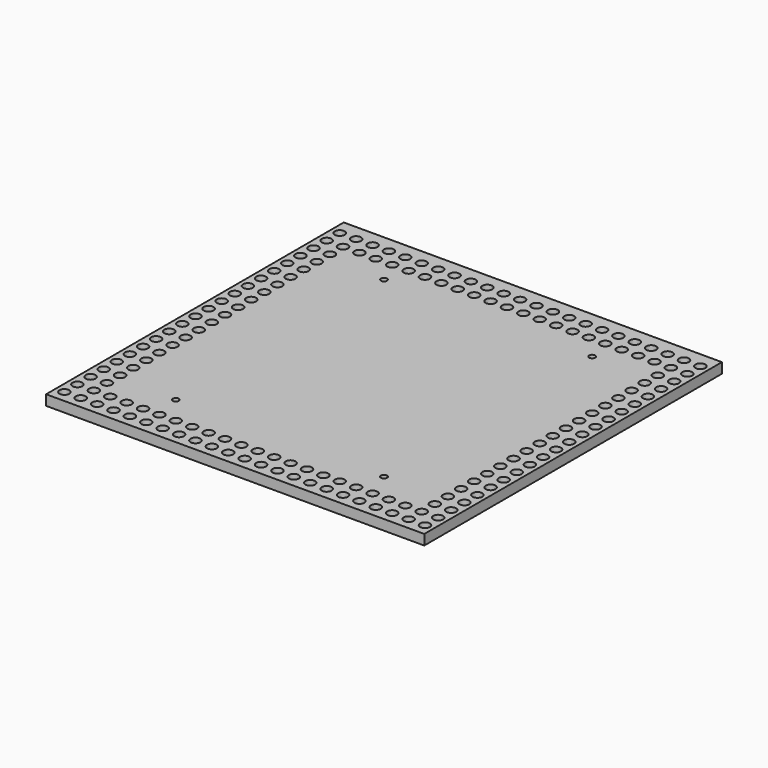
from build123d import *

# Parameters (mm, degrees)
F0_W     = 184.55
F0_H     = 181.58
F1_DEPTH = 5
F2_R     = 2.4
F3_DEPTH = 25
F5_DEPTH = 25


with BuildPart() as f1:
    # F0 (on Top) → F1 (new body)
    with BuildSketch(Plane.XY):
        Rectangle(F0_W, F0_H)
    extrude(amount=F1_DEPTH)

    # F2 (on face) → F3 (cut)
    with BuildSketch(Plane.XY.offset(5)):
        with Locations((80, -76.99)):
            Circle(F2_R)
        with Locations((88, -76.99)):
            Circle(F2_R)
        with Locations((88, -84.99)):
            Circle(F2_R)
        with Locations((80, -84.99)):
            Circle(F2_R)
        with Locations((72, -76.99)):
            Circle(F2_R)
        with Locations((72, -84.99)):
            Circle(F2_R)
        with Locations((64, -84.99)):
            Circle(F2_R)
        with Locations((64, -76.99)):
            Circle(F2_R)
        with Locations((56, -76.99)):
            Circle(F2_R)
        with Locations((56, -84.99)):
            Circle(F2_R)
        with Locations((48, -84.99)):
            Circle(F2_R)
        with Locations((48, -76.99)):
            Circle(F2_R)
        with Locations((40, -76.99)):
            Circle(F2_R)
        with Locations((40, -84.99)):
            Circle(F2_R)
        with Locations((32, -84.99)):
            Circle(F2_R)
        with Locations((32, -76.99)):
            Circle(F2_R)
        with Locations((24, -76.99)):
            Circle(F2_R)
        with Locations((24, -84.99)):
            Circle(F2_R)
        with Locations((16, -84.99)):
            Circle(F2_R)
        with Locations((16, -76.99)):
            Circle(F2_R)
        with Locations((8, -76.99)):
            Circle(F2_R)
        with Locations((8, -84.99)):
            Circle(F2_R)
        with Locations((0, -84.99)):
            Circle(F2_R)
        with Locations((0, -76.99)):
            Circle(F2_R)
        with Locations((-8, -76.99)):
            Circle(F2_R)
        with Locations((-8, -84.99)):
            Circle(F2_R)
        with Locations((-16, -84.99)):
            Circle(F2_R)
        with Locations((-16, -76.99)):
            Circle(F2_R)
        with Locations((-24, -76.99)):
            Circle(F2_R)
        with Locations((-24, -84.99)):
            Circle(F2_R)
        with Locations((-32, -84.99)):
            Circle(F2_R)
        with Locations((-32, -76.99)):
            Circle(F2_R)
        with Locations((-40, -76.99)):
            Circle(F2_R)
        with Locations((-40, -84.99)):
            Circle(F2_R)
        with Locations((-48, -84.99)):
            Circle(F2_R)
        with Locations((-48, -76.99)):
            Circle(F2_R)
        with Locations((-56, -76.99)):
            Circle(F2_R)
        with Locations((-56, -84.99)):
            Circle(F2_R)
        with Locations((-64, -84.99)):
            Circle(F2_R)
        with Locations((-72, -84.99)):
            Circle(F2_R)
        with Locations((-72, -76.99)):
            Circle(F2_R)
        with Locations((-64, -76.99)):
            Circle(F2_R)
        with Locations((-80, -84.99)):
            Circle(F2_R)
        with Locations((-88, -84.99)):
            Circle(F2_R)
        with Locations((-88, -76.99)):
            Circle(F2_R)
        with Locations((-80, -76.99)):
            Circle(F2_R)
        with Locations((-80, -68.99)):
            Circle(F2_R)
        with Locations((-88, -68.99)):
            Circle(F2_R)
        with Locations((-88, -60.99)):
            Circle(F2_R)
        with Locations((-80, -60.99)):
            Circle(F2_R)
        with Locations((-80, -52.99)):
            Circle(F2_R)
        with Locations((-88, -52.99)):
            Circle(F2_R)
        with Locations((-88, -44.99)):
            Circle(F2_R)
        with Locations((-80, -44.99)):
            Circle(F2_R)
        with Locations((-80, -36.99)):
            Circle(F2_R)
        with Locations((-88, -36.99)):
            Circle(F2_R)
        with Locations((-88, -28.99)):
            Circle(F2_R)
        with Locations((-80, -28.99)):
            Circle(F2_R)
        with Locations((-80, -20.99)):
            Circle(F2_R)
        with Locations((-88, -20.99)):
            Circle(F2_R)
        with Locations((-88, -12.99)):
            Circle(F2_R)
        with Locations((-80, -12.99)):
            Circle(F2_R)
        with Locations((-80, -4.99)):
            Circle(F2_R)
        with Locations((-88, -4.99)):
            Circle(F2_R)
        with Locations((-88, 3.01)):
            Circle(F2_R)
        with Locations((-80, 3.01)):
            Circle(F2_R)
        with Locations((-80, 11.01)):
            Circle(F2_R)
        with Locations((-88, 11.01)):
            Circle(F2_R)
        with Locations((-88, 19.01)):
            Circle(F2_R)
        with Locations((-80, 19.01)):
            Circle(F2_R)
        with Locations((-88, 27.01)):
            Circle(F2_R)
        with Locations((-80, 27.01)):
            Circle(F2_R)
        with Locations((-80, 35.01)):
            Circle(F2_R)
        with Locations((-88, 35.01)):
            Circle(F2_R)
        with Locations((-88, 43.01)):
            Circle(F2_R)
        with Locations((-80, 43.01)):
            Circle(F2_R)
        with Locations((-80, 51.01)):
            Circle(F2_R)
        with Locations((-88, 51.01)):
            Circle(F2_R)
        with Locations((-88, 59.01)):
            Circle(F2_R)
        with Locations((-80, 59.01)):
            Circle(F2_R)
        with Locations((-80, 67.01)):
            Circle(F2_R)
        with Locations((-88, 67.01)):
            Circle(F2_R)
        with Locations((-88, 75.01)):
            Circle(F2_R)
        with Locations((-88, 83.01)):
            Circle(F2_R)
        with Locations((-80, 83.01)):
            Circle(F2_R)
        with Locations((-80, 75.01)):
            Circle(F2_R)
        with Locations((-72, 75.01)):
            Circle(F2_R)
        with Locations((-72, 83.01)):
            Circle(F2_R)
        with Locations((-64, 83.01)):
            Circle(F2_R)
        with Locations((-64, 75.01)):
            Circle(F2_R)
        with Locations((-56, 75.01)):
            Circle(F2_R)
        with Locations((-56, 83.01)):
            Circle(F2_R)
        with Locations((-48, 83.01)):
            Circle(F2_R)
        with Locations((-48, 75.01)):
            Circle(F2_R)
        with Locations((-40, 75.01)):
            Circle(F2_R)
        with Locations((-40, 83.01)):
            Circle(F2_R)
        with Locations((-32, 83.01)):
            Circle(F2_R)
        with Locations((-32, 75.01)):
            Circle(F2_R)
        with Locations((-24, 75.01)):
            Circle(F2_R)
        with Locations((-24, 83.01)):
            Circle(F2_R)
        with Locations((-16, 83.01)):
            Circle(F2_R)
        with Locations((-16, 75.01)):
            Circle(F2_R)
        with Locations((-8, 83.01)):
            Circle(F2_R)
        with Locations((-8, 75.01)):
            Circle(F2_R)
        with Locations((0, 83.01)):
            Circle(F2_R)
        with Locations((0, 75.01)):
            Circle(F2_R)
        with Locations((8, 83.01)):
            Circle(F2_R)
        with Locations((8, 75.01)):
            Circle(F2_R)
        with Locations((16, 75.01)):
            Circle(F2_R)
        with Locations((16, 83.01)):
            Circle(F2_R)
        with Locations((24, 83.01)):
            Circle(F2_R)
        with Locations((24, 75.01)):
            Circle(F2_R)
        with Locations((32, 75.01)):
            Circle(F2_R)
        with Locations((32, 83.01)):
            Circle(F2_R)
        with Locations((40, 83.01)):
            Circle(F2_R)
        with Locations((40, 75.01)):
            Circle(F2_R)
        with Locations((48, 75.01)):
            Circle(F2_R)
        with Locations((48, 83.01)):
            Circle(F2_R)
        with Locations((56, 83.01)):
            Circle(F2_R)
        with Locations((56, 75.01)):
            Circle(F2_R)
        with Locations((64, 75.01)):
            Circle(F2_R)
        with Locations((64, 83.01)):
            Circle(F2_R)
        with Locations((72, 83.01)):
            Circle(F2_R)
        with Locations((72, 75.01)):
            Circle(F2_R)
        with Locations((80, 83.01)):
            Circle(F2_R)
        with Locations((88, 83.01)):
            Circle(F2_R)
        with Locations((88, 75.01)):
            Circle(F2_R)
        with Locations((80, 75.01)):
            Circle(F2_R)
        with Locations((80, 67.01)):
            Circle(F2_R)
        with Locations((88, 67.01)):
            Circle(F2_R)
        with Locations((88, 59.01)):
            Circle(F2_R)
        with Locations((80, 59.01)):
            Circle(F2_R)
        with Locations((80, 51.01)):
            Circle(F2_R)
        with Locations((88, 51.01)):
            Circle(F2_R)
        with Locations((88, 43.01)):
            Circle(F2_R)
        with Locations((80, 43.01)):
            Circle(F2_R)
        with Locations((80, 35.01)):
            Circle(F2_R)
        with Locations((88, 35.01)):
            Circle(F2_R)
        with Locations((88, 27.01)):
            Circle(F2_R)
        with Locations((80, 27.01)):
            Circle(F2_R)
        with Locations((80, 19.01)):
            Circle(F2_R)
        with Locations((88, 19.01)):
            Circle(F2_R)
        with Locations((88, 11.01)):
            Circle(F2_R)
        with Locations((80, 11.01)):
            Circle(F2_R)
        with Locations((80, 3.01)):
            Circle(F2_R)
        with Locations((88, 3.01)):
            Circle(F2_R)
        with Locations((88, -4.99)):
            Circle(F2_R)
        with Locations((80, -4.99)):
            Circle(F2_R)
        with Locations((80, -12.99)):
            Circle(F2_R)
        with Locations((88, -12.99)):
            Circle(F2_R)
        with Locations((88, -20.99)):
            Circle(F2_R)
        with Locations((80, -20.99)):
            Circle(F2_R)
        with Locations((80, -28.99)):
            Circle(F2_R)
        with Locations((88, -28.99)):
            Circle(F2_R)
        with Locations((88, -36.99)):
            Circle(F2_R)
        with Locations((80, -36.99)):
            Circle(F2_R)
        with Locations((80, -44.99)):
            Circle(F2_R)
        with Locations((88, -44.99)):
            Circle(F2_R)
        with Locations((88, -52.99)):
            Circle(F2_R)
        with Locations((80, -52.99)):
            Circle(F2_R)
        with Locations((80, -60.99)):
            Circle(F2_R)
        with Locations((88, -60.99)):
            Circle(F2_R)
        with Locations((88, -68.99)):
            Circle(F2_R)
        with Locations((80, -68.99)):
            Circle(F2_R)
    extrude(amount=-F3_DEPTH, mode=Mode.SUBTRACT)

    # F4 (on face) → F5 (cut)
    with BuildSketch(Plane.XY.offset(5)):
        with BuildLine():
            ThreePointArc((-50.8, -62), (-51.86066, -64.56066), (-49.3, -63.5))
            Line((-49.3, -63.5), (-50.8, -63.5))
            Line((-50.8, -63.5), (-50.8, -62))
        make_face()
        with BuildLine():
            Line((-50.8, -63.5), (-49.3, -63.5))
            ThreePointArc((-49.3, -63.5), (-49.73934, -62.43934), (-50.8, -62))
            Line((-50.8, -62), (-50.8, -63.5))
        make_face()
        with BuildLine():
            Line((50.8, -63.5), (49.3, -63.5))
            ThreePointArc((49.3, -63.5), (50.8, -65), (52.3, -63.5))
            ThreePointArc((52.3, -63.5), (51.86066, -62.43934), (50.8, -62))
            Line((50.8, -62), (50.8, -63.5))
        make_face()
        with BuildLine():
            ThreePointArc((50.8, -62), (49.73934, -62.43934), (49.3, -63.5))
            Line((49.3, -63.5), (50.8, -63.5))
            Line((50.8, -63.5), (50.8, -62))
        make_face()
        with BuildLine():
            ThreePointArc((49.3, 63.5), (49.73934, 62.43934), (50.8, 62))
            Line((50.8, 62), (50.8, 63.5))
            Line((50.8, 63.5), (49.3, 63.5))
        make_face()
        with BuildLine():
            Line((50.8, 63.5), (50.8, 62))
            ThreePointArc((50.8, 62), (51.86066, 62.43934), (52.3, 63.5))
            ThreePointArc((52.3, 63.5), (50.8, 65), (49.3, 63.5))
            Line((49.3, 63.5), (50.8, 63.5))
        make_face()
        with BuildLine():
            ThreePointArc((-49.3, 63.5), (-51.86066, 64.56066), (-50.8, 62))
            Line((-50.8, 62), (-50.8, 63.5))
            Line((-50.8, 63.5), (-49.3, 63.5))
        make_face()
        with BuildLine():
            Line((-50.8, 63.5), (-50.8, 62))
            ThreePointArc((-50.8, 62), (-49.73934, 62.43934), (-49.3, 63.5))
            Line((-49.3, 63.5), (-50.8, 63.5))
        make_face()
    extrude(amount=-F5_DEPTH, mode=Mode.SUBTRACT)


solid = f1.part
